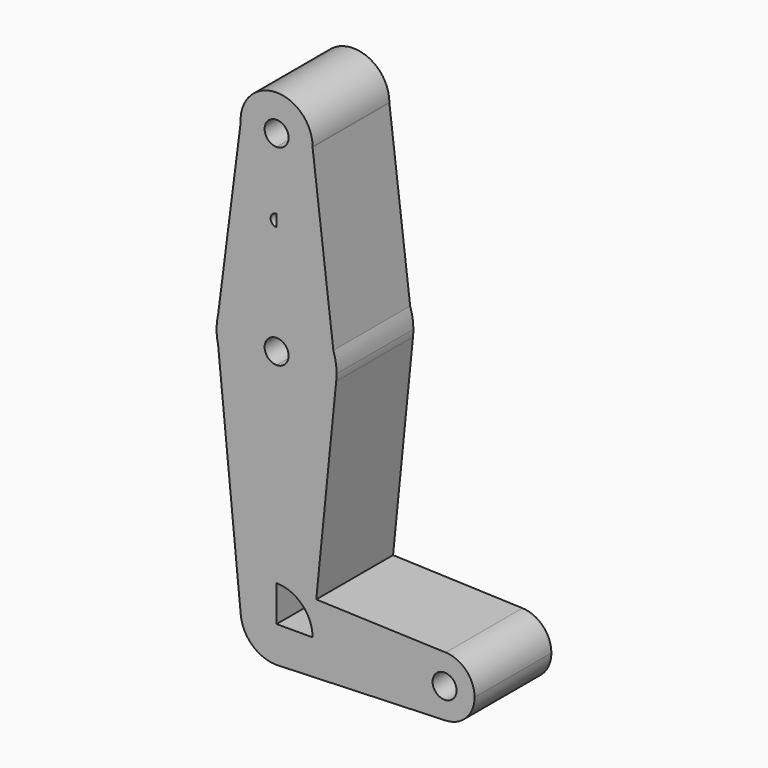
from build123d import *

# Parameters (mm, degrees)
F1_DEPTH = 25.4


with BuildPart() as f1:
    # F0 (on Front) → F1 (new body)
    with BuildSketch(Plane.XZ):
        with BuildLine():
            ThreePointArc((-52.6375608147, 14.5768073923), (-52.9049278081, 13.0682621547), (-53.0256334851, 11.5409691302))
            Line((-53.0256334851, 11.5409691302), (-52.6375608147, 14.5768073923))
        make_face()
        with BuildLine():
            ThreePointArc((-53.0256334851, 11.5409691302), (-52.9567526213, 9.5006490161), (-52.626604548, 7.4860391306))
            Line((-52.626604548, 7.4860391306), (-53.0256334851, 11.5409691302))
        make_face()
        with BuildLine():
            Line((-36.3236962015, -61.933052478), (-37.3185729295, -61.9683146297))
            ThreePointArc((-37.3185729295, -61.9683146297), (-36.8206735744, -61.9636898307), (-36.3236962015, -61.933052478))
        make_face()
        with BuildLine():
            ThreePointArc((-46.6372769074, -53.3774774429), (-44.2153518815, -46.0477691807), (-37.1580633365, -42.9196671314))
            Line((-37.1580633365, -42.9196671314), (-37.1580633365, -4.8196671314))
            ThreePointArc((-37.1580633365, -4.8196671314), (-47.0412077478, -1.3679952502), (-52.626604548, 7.4860391306))
            Line((-52.626604548, 7.4860391306), (-46.6372769074, -53.3774774429))
        make_face()
        with BuildLine():
            Line((7.5743419381, -44.5121925169), (-26.6656242241, -43.2932101041))
            Line((-26.6656242241, -43.2932101041), (-27.5851066228, -52.4446671314))
            Line((-27.5851066228, -52.4446671314), (-0.6455633365, -52.4446671314))
            ThreePointArc((-0.6455633365, -52.4446671314), (1.7800261788, -46.7330343475), (7.5743419381, -44.5121925169))
        make_face()
        with BuildLine():
            ThreePointArc((-27.6330633365, 61.8553328686), (-37.4410701637, 71.3761275904), (-46.6662459371, 61.2895691085))
            ThreePointArc((-46.6662459371, 61.2895691085), (-43.6901657999, 54.9229983118), (-37.1580633365, 52.3303328686))
            ThreePointArc((-37.1580633365, 52.3303328686), (-30.4753898723, 55.0680285162), (-27.6342126932, 61.7073669112))
            ThreePointArc((-27.6342126932, 61.7073669112), (-27.63335068, 61.781347658), (-27.6330633365, 61.8553328686))
        make_face()
        with BuildLine():
            ThreePointArc((-33.9830633365, 61.8553328686), (-34.9129993062, 59.6102688383), (-37.1580633365, 58.6803328686))
            ThreePointArc((-37.1580633365, 58.6803328686), (-39.4031273667, 64.1003968988), (-33.9830633365, 61.8553328686))
        make_face(mode=Mode.SUBTRACT)
        with BuildLine():
            ThreePointArc((15.2294366635, -52.4446671314), (13.0035694475, -46.9327566467), (7.5743419381, -44.5121925169))
            ThreePointArc((7.5743419381, -44.5121925169), (1.7800261788, -46.7330343475), (-0.6455633365, -52.4446671314))
            ThreePointArc((-0.6455633365, -52.4446671314), (1.7795772071, -58.1558666091), (7.5730947986, -60.3771860475))
            ThreePointArc((7.5730947986, -60.3771860475), (13.0031361412, -57.9570265878), (15.2294366635, -52.4446671314))
        make_face()
        with BuildLine():
            ThreePointArc((10.4669366635, -52.4446671314), (7.2919366635, -55.6196671314), (4.1169366635, -52.4446671314))
            ThreePointArc((4.1169366635, -52.4446671314), (7.2919366635, -49.2696671314), (10.4669366635, -52.4446671314))
        make_face(mode=Mode.SUBTRACT)
        with BuildLine():
            Line((-37.1580633365, 39.9805296719), (-37.1580633365, 26.9303328686))
            ThreePointArc((-37.1580633365, 26.9303328686), (-27.9262644654, 23.9700343597), (-22.1374741528, 16.1931851022))
            Line((-22.1374741528, 16.1931851022), (-27.6342126932, 61.7073669112))
            ThreePointArc((-27.6342126932, 61.7073669112), (-30.4753898723, 55.0680285162), (-37.1580633365, 52.3303328686))
            Line((-37.1580633365, 52.3303328686), (-37.1580633365, 43.1555296719))
            ThreePointArc((-37.1580633365, 43.1555296719), (-36.0355313213, 42.690561687), (-35.5705633365, 41.5680296719))
            ThreePointArc((-35.5705633365, 41.5680296719), (-36.0355313213, 40.4454976568), (-37.1580633365, 39.9805296719))
        make_face()
        with BuildLine():
            Line((-37.1580633365, 7.8803328686), (-37.1580633365, -4.8196671314))
            ThreePointArc((-37.1580633365, -4.8196671314), (-26.5992888705, -0.7991138404), (-21.3888124112, 9.2260296526))
            ThreePointArc((-21.3888124112, 9.2260296526), (-21.3095226554, 10.1391542393), (-21.2830633365, 11.0553328686))
            ThreePointArc((-21.2830633365, 11.0553328686), (-21.4981227508, 13.6595382857), (-22.1374741528, 16.1931851022))
            ThreePointArc((-22.1374741528, 16.1931851022), (-27.9262644654, 23.9700343597), (-37.1580633365, 26.9303328686))
            Line((-37.1580633365, 26.9303328686), (-37.1580633365, 14.2303328686))
            ThreePointArc((-37.1580633365, 14.2303328686), (-34.9129993062, 13.3003968988), (-33.9830633365, 11.0553328686))
            ThreePointArc((-33.9830633365, 11.0553328686), (-34.9129993062, 8.8102688383), (-37.1580633365, 7.8803328686))
        make_face()
        with BuildLine():
            Line((-37.1580633365, -4.8196671314), (-37.1580633365, -42.9196671314))
            ThreePointArc((-37.1580633365, -42.9196671314), (-36.819177007, -42.9256975939), (-36.4807197886, -42.9437813455))
            Line((-36.4807197886, -42.9437813455), (-26.6656242241, -43.2932101041))
            Line((-26.6656242241, -43.2932101041), (-21.3888124112, 9.2260296526))
            ThreePointArc((-21.3888124112, 9.2260296526), (-26.5992888705, -0.7991138404), (-37.1580633365, -4.8196671314))
        make_face()
        with BuildLine():
            Line((-37.1580633365, -52.4446671314), (-37.1580633365, -42.9196671314))
            ThreePointArc((-37.1580633365, -42.9196671314), (-44.2153518815, -46.0477691807), (-46.6372769074, -53.3774774429))
            ThreePointArc((-46.6372769074, -53.3774774429), (-43.6141989114, -59.4478048881), (-37.3185729295, -61.9683146297))
            Line((-37.3185729295, -61.9683146297), (-36.3236962015, -61.933052478))
            ThreePointArc((-36.3236962015, -61.933052478), (-30.1340697445, -58.8781062599), (-27.6330633365, -52.4446671314))
            Line((-27.6330633365, -52.4446671314), (-37.1580633365, -52.4446671314))
        make_face()
        with BuildLine():
            Line((-27.5851066228, -52.4446671314), (-27.6330633365, -52.4446671314))
            ThreePointArc((-27.6330633365, -52.4446671314), (-30.1340697445, -58.8781062599), (-36.3236962015, -61.933052478))
            Line((-36.3236962015, -61.933052478), (7.5730947986, -60.3771860475))
            ThreePointArc((7.5730947986, -60.3771860475), (1.7795772071, -58.1558666091), (-0.6455633365, -52.4446671314))
            Line((-0.6455633365, -52.4446671314), (-27.5851066228, -52.4446671314))
        make_face()
        with BuildLine():
            Line((-26.6656242241, -43.2932101041), (-36.4807197886, -42.9437813455))
            ThreePointArc((-36.4807197886, -42.9437813455), (-30.187506605, -45.9533680432), (-27.6330633365, -52.4446671314))
            Line((-27.6330633365, -52.4446671314), (-27.5851066228, -52.4446671314))
            Line((-27.5851066228, -52.4446671314), (-26.6656242241, -43.2932101041))
        make_face()
        with BuildLine():
            ThreePointArc((-52.626604548, 7.4860391306), (-47.0412077478, -1.3679952502), (-37.1580633365, -4.8196671314))
            Line((-37.1580633365, -4.8196671314), (-37.1580633365, 7.8803328686))
            ThreePointArc((-37.1580633365, 7.8803328686), (-40.3330633365, 11.0553328686), (-37.1580633365, 14.2303328686))
            Line((-37.1580633365, 14.2303328686), (-37.1580633365, 26.9303328686))
            ThreePointArc((-37.1580633365, 26.9303328686), (-47.0603917731, 23.4633752819), (-52.6375608147, 14.5768073923))
            Line((-52.6375608147, 14.5768073923), (-53.0256334851, 11.5409691302))
            Line((-53.0256334851, 11.5409691302), (-52.626604548, 7.4860391306))
        make_face()
        with BuildLine():
            Line((-37.1580633365, 43.1555296719), (-37.1580633365, 39.9805296719))
            ThreePointArc((-37.1580633365, 39.9805296719), (-36.0355313213, 40.4454976568), (-35.5705633365, 41.5680296719))
            ThreePointArc((-35.5705633365, 41.5680296719), (-36.0355313213, 42.690561687), (-37.1580633365, 43.1555296719))
        make_face()
        with BuildLine():
            ThreePointArc((-52.6375608147, 14.5768073923), (-47.0603917731, 23.4633752819), (-37.1580633365, 26.9303328686))
            Line((-37.1580633365, 26.9303328686), (-37.1580633365, 39.9805296719))
            ThreePointArc((-37.1580633365, 39.9805296719), (-38.7455633365, 41.5680296719), (-37.1580633365, 43.1555296719))
            Line((-37.1580633365, 43.1555296719), (-37.1580633365, 52.3303328686))
            ThreePointArc((-37.1580633365, 52.3303328686), (-43.6901657999, 54.9229983118), (-46.6662459371, 61.2895691085))
            Line((-46.6662459371, 61.2895691085), (-52.6375608147, 14.5768073923))
        make_face()
    extrude(amount=F1_DEPTH)


solid = f1.part
